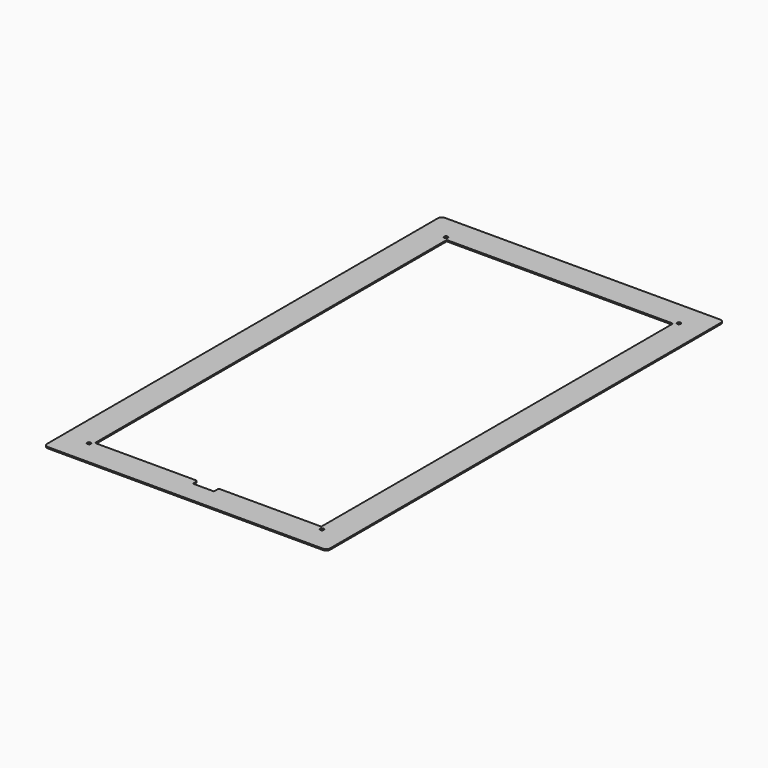
from build123d import *

# Parameters (mm, degrees)
F0_W     = 341.3125
F0_H     = 598.5927322
F0_R     = 2.15265
F0_W_2   = 273.05
F0_H_2   = 530.3302322
F1_DEPTH = 1.5875
F2_R     = 4.7625
F3_W     = 25.4
F3_H     = 7.14375
F4_DEPTH = 1.5875
F5_SIZE  = 1.5875


with BuildPart() as f1:
    # F0 (on Top) → F1 (new body)
    with BuildSketch(Plane.XY):
        Rectangle(F0_W, F0_H)
        with Locations((-140.49375, -269.1338661)):
            Circle(F0_R, mode=Mode.SUBTRACT)
        with Locations((140.49375, -269.1338661)):
            Circle(F0_R, mode=Mode.SUBTRACT)
        with Locations((-140.49375, 269.1338661)):
            Circle(F0_R, mode=Mode.SUBTRACT)
        Rectangle(F0_W_2, F0_H_2, mode=Mode.SUBTRACT)
        with Locations((140.49375, 269.1338661)):
            Circle(F0_R, mode=Mode.SUBTRACT)
    extrude(amount=F1_DEPTH)

    # F2
    f2_edges = [f1.edges().sort_by_distance(p)[0] for p in [
        (-170.65625, 299.296366, 0.79375),
        (170.65625, 299.296366, 0.79375),
        (170.65625, -299.296366, 0.79375),
        (-170.65625, -299.296366, 0.79375),
    ]]
    fillet(f2_edges, radius=F2_R)

    # F3 (on face) → F4 (cut, through all)
    with BuildSketch(Plane.XY.offset(1.5875)):
        with Locations((0, -268.7369911)):
            Rectangle(F3_W, F3_H)
    extrude(amount=-F4_DEPTH, mode=Mode.SUBTRACT)

    # F5
    f5_edges = [f1.edges().sort_by_distance(p)[0] for p in [
        (12.7, -265.165116, 0.79375),
        (-12.7, -265.165116, 0.79375),
    ]]
    chamfer(f5_edges, length=F5_SIZE)


solid = f1.part
